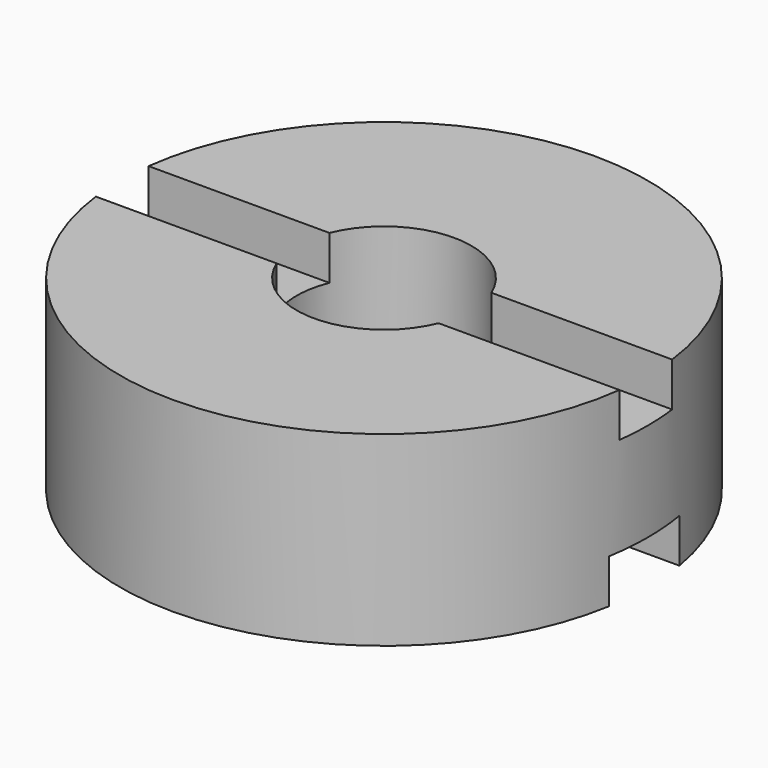
from build123d import *

# Parameters (mm, degrees)
F0_R     = 38.1
F0_R_2   = 12.6238
F1_DEPTH = 26.924
F3_DEPTH = 6.35
F5_DEPTH = 6.35


with BuildPart() as f1:
    # F0 (on Top) → F1 (new body)
    with BuildSketch(Plane.XY):
        Circle(F0_R)
        Circle(F0_R_2, mode=Mode.SUBTRACT)
    extrude(amount=F1_DEPTH)

    # F2 (on face) → F3 (cut)
    with BuildSketch(Plane.XY.offset(26.924)):
        with BuildLine():
            Line((-11.6909760153, 4.7625), (-37.8011718568, 4.7625))
            ThreePointArc((-37.8011718568, 4.7625), (-38.0252195769, 2.3859329679), (-38.1, 0))
            ThreePointArc((-38.1, 0), (-38.0252195769, -2.3859329679), (-37.8011718568, -4.7625))
            Line((-37.8011718568, -4.7625), (-11.6909760153, -4.7625))
            ThreePointArc((-11.6909760153, -4.7625), (-12.6238, 0), (-11.6909760153, 4.7625))
        make_face()
        with BuildLine():
            ThreePointArc((38.1, 0), (38.0252195769, 2.3859329679), (37.8011718568, 4.7625))
            Line((37.8011718568, 4.7625), (11.6909760153, 4.7625))
            ThreePointArc((11.6909760153, 4.7625), (12.3883991997, 2.426497828), (12.6238, 0))
            ThreePointArc((12.6238, 0), (12.3883991997, -2.426497828), (11.6909760153, -4.7625))
            Line((11.6909760153, -4.7625), (37.8011718568, -4.7625))
            ThreePointArc((37.8011718568, -4.7625), (38.0252195769, -2.3859329679), (38.1, 0))
        make_face()
    extrude(amount=-F3_DEPTH, mode=Mode.SUBTRACT)

    # F4 (on face) → F5 (cut)
    with BuildSketch(Plane(origin=(0, 0, 0), x_dir=(1, 0, 0), z_dir=(0, 0, -1))):
        with BuildLine():
            Line((-10.9104457489, 6.35), (-37.5671066227, 6.35))
            ThreePointArc((-37.5671066227, 6.35), (-37.9665429182, 3.1861605167), (-38.1, 0))
            ThreePointArc((-38.1, 0), (-37.9665429182, -3.1861605167), (-37.5671066227, -6.35))
            Line((-37.5671066227, -6.35), (-10.9104457489, -6.35))
            ThreePointArc((-10.9104457489, -6.35), (-12.6238, 0), (-10.9104457489, 6.35))
        make_face()
        with BuildLine():
            ThreePointArc((38.1, 0), (37.9665429182, 3.1861605167), (37.5671066227, 6.35))
            Line((37.5671066227, 6.35), (10.9104457489, 6.35))
            ThreePointArc((10.9104457489, 6.35), (12.1879368944, 3.2885438567), (12.6238, 0))
            ThreePointArc((12.6238, 0), (12.1879368944, -3.2885438567), (10.9104457489, -6.35))
            Line((10.9104457489, -6.35), (37.5671066227, -6.35))
            ThreePointArc((37.5671066227, -6.35), (37.9665429182, -3.1861605167), (38.1, 0))
        make_face()
    extrude(amount=-F5_DEPTH, mode=Mode.SUBTRACT)


solid = f1.part
